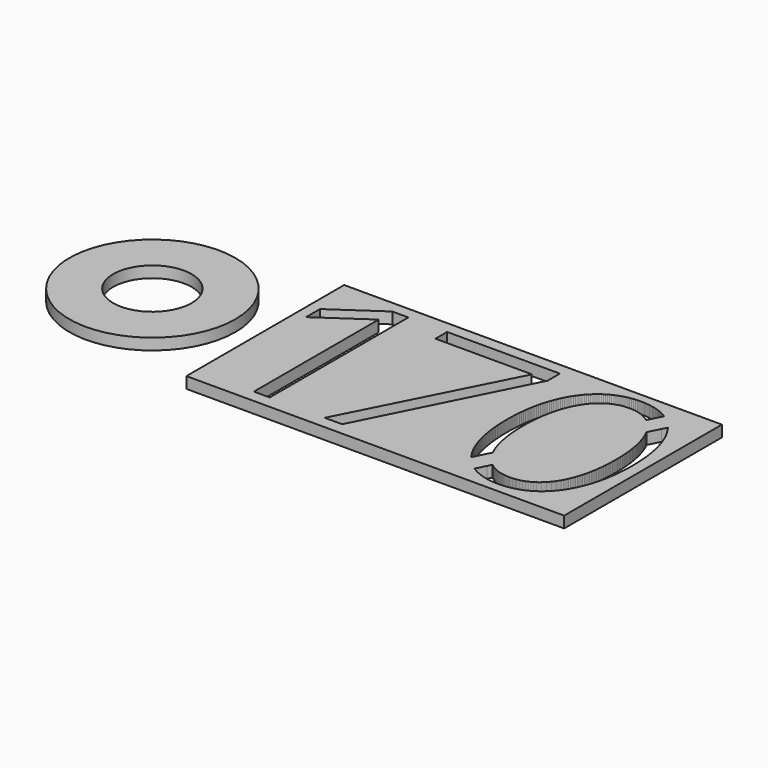
from build123d import *

# Parameters (mm, degrees)
F0_R     = 69.85
F0_R_2   = 33.02
F0_W     = 317.880854
F0_H     = 165.927604
F1_DEPTH = 9.525


with BuildPart() as f1:
    # F0 (on Top) → F1 (new body)
    with BuildSketch(Plane.XY):
        Circle(F0_R)
        Circle(F0_R_2, mode=Mode.SUBTRACT)
        with Locations((254.15469, -0.285514)):
            Rectangle(F0_W, F0_H)
        Polygon((403.593935, 6.470647), (403.665512, 4.388863), (403.708616, 2.28239), (403.722992, 0.151508), (403.708667, -1.993344), (403.665817, -4.113381), (403.594545, -6.208271), (403.495027, -8.277787), (403.367392, -10.321623), (403.211767, -12.339476), (403.028252, -14.331064), (402.817076, -16.29611), (402.578316, -18.234333), (402.312124, -20.145429), (402.018627, -22.029118), (401.697977, -23.885122), (401.350328, -25.71316), (400.975779, -27.512928), (400.57451, -29.28412), (400.146622, -31.02651), (399.692317, -32.73974), (399.211648, -34.423607), (398.704791, -36.077757), (398.171899, -37.701909), (397.613099, -39.29581), (397.028543, -40.859154), (396.418333, -42.391638), (395.782648, -43.893007), (395.121587, -45.362981), (394.435355, -46.80123), (393.724003, -48.207501), (392.987759, -49.581514), (392.226673, -50.922939), (391.440949, -52.231522), (390.630689, -53.506983), (389.796071, -54.749017), (388.93717, -55.957346), (388.05419, -57.13169), (387.147257, -58.271743), (386.216474, -59.377253), (385.261993, -60.447888), (384.283966, -61.483396), (383.282546, -62.48347), (382.257859, -63.447857), (381.210007, -64.376227), (380.139143, -65.268326), (379.04547, -66.123823), (377.929038, -66.942516), (376.790052, -67.724023), (375.628611, -68.468116), (374.44487, -69.17449), (373.238954, -69.842866), (372.011016, -70.472964), (370.761184, -71.064453), (369.489609, -71.617107), (368.196419, -72.130618), (366.881766, -72.604684), (365.545776, -73.039024), (364.188578, -73.433359), (362.810349, -73.78741), (361.41119, -74.100871), (359.991254, -74.373489), (358.550667, -74.604934), (357.089583, -74.794926), (355.608128, -74.943237), (354.106455, -75.049485), (352.58469, -75.113467), (351.043011, -75.134854), (349.501206, -75.113544), (347.979213, -75.04979), (346.477158, -74.943872), (344.995221, -74.796069), (343.533501, -74.606687), (342.092178, -74.375978), (340.671353, -74.104249), (339.271204, -73.791753), (337.891857, -73.438795), (336.533465, -73.045653), (335.196155, -72.612609), (333.880104, -72.13994), (332.585416, -71.627927), (331.312241, -71.076849), (330.060757, -70.486984), (328.831092, -69.858639), (327.623348, -69.192067), (326.437727, -68.487573), (325.28035, -67.749271), (329.318544, -59.720839), (331.11374, -56.151758), (331.119937, -56.156914), (331.960601, -56.812158), (332.81813, -57.436007), (333.6925, -58.028208), (334.583583, -58.588558), (335.491277, -59.116776), (336.415532, -59.612635), (337.356247, -60.075905), (338.313319, -60.506359), (339.286672, -60.903742), (340.276231, -61.2678), (341.281893, -61.598331), (342.303557, -61.895079), (343.341173, -62.157791), (344.394587, -62.386264), (345.4638, -62.580218), (346.548659, -62.739476), (347.649089, -62.863733), (348.765012, -62.952786), (349.896354, -63.00638), (351.043011, -63.024312), (352.189644, -63.00638), (353.320985, -62.952786), (354.436909, -62.863733), (355.537338, -62.739502), (356.622198, -62.580269), (357.691411, -62.38634), (358.744825, -62.157918), (359.78244, -61.895282), (360.80413, -61.59861), (361.809767, -61.268181), (362.799325, -60.90425), (363.772679, -60.50702), (364.729751, -60.076769), (365.670465, -59.613702), (366.59472, -59.118071), (367.502415, -58.590132), (368.393497, -58.030113), (369.267867, -57.438268), (370.125396, -56.814799), (370.96606, -56.159987), (371.789757, -55.474035), (372.596359, -54.757222), (373.385791, -54.009776), (374.158002, -53.231901), (374.91289, -52.423901), (375.650328, -51.586006), (376.370266, -50.718393), (377.072601, -49.821341), (377.757258, -48.895105), (378.424135, -47.939912), (379.073181, -46.955993), (379.704244, -45.943625), (380.317299, -44.902987), (380.912218, -43.834383), (381.488925, -42.737992), (382.047318, -41.614093), (382.587373, -40.46294), (383.108911, -39.284735), (383.611907, -38.079759), (384.096235, -36.848215), (384.561842, -35.590356), (385.008603, -34.306412), (385.436466, -32.996661), (385.845329, -31.661281), (386.235092, -30.300578), (386.605678, -28.914754), (386.957011, -27.504038), (387.288989, -26.068709), (387.601536, -24.608996), (387.894551, -23.125103), (388.167931, -21.617334), (388.421626, -20.085866), (388.655509, -18.53098), (388.869555, -16.952903), (389.063611, -15.351865), (389.237601, -13.728119), (389.391449, -12.081894), (389.525104, -10.41347), (389.638413, -8.723049), (389.731326, -7.01086), (389.803716, -5.277183), (389.855558, -3.522196), (389.886723, -1.746202), (389.897137, 0.050568), (389.886571, 1.833445), (389.854999, 3.596103), (389.802446, 5.33834), (389.729091, 7.059825), (389.635009, 8.76033), (389.520278, 10.439651), (389.385023, 12.097509), (389.229321, 13.73365), (389.053324, 15.347794), (388.857084, 16.939739), (388.640701, 18.50918), (388.404329, 20.055938), (388.148043, 21.579659), (387.871919, 23.080215), (387.57606, 24.55725), (387.260592, 26.010537), (386.925617, 27.439871), (386.571261, 28.844948), (386.197577, 30.22554), (385.804664, 31.581417), (385.392651, 32.912275), (384.961638, 34.217886), (384.511702, 35.498021), (384.042996, 36.7524), (383.55557, 37.980769), (383.049551, 39.182875), (382.525041, 40.358489), (381.982142, 41.507381), (381.420929, 42.629223), (381.102133, 43.231457), (386.055946, 53.080282), (388.071335, 57.087132), (388.898181, 55.991808), (389.758199, 54.786908), (390.594063, 53.548531), (391.405593, 52.276981), (392.192662, 50.972514), (392.955145, 49.635458), (393.692863, 48.266067), (394.405663, 46.864673), (395.093444, 45.431554), (395.756028, 43.96699), (396.393289, 42.471337), (397.005048, 40.944797), (397.591204, 39.387726), (398.151579, 37.800378), (398.68602, 36.183084), (399.194426, 34.536123), (399.67662, 32.859774), (400.132448, 31.154341), (400.561785, 29.420131), (400.964476, 27.657396), (401.340371, 25.866493), (401.689316, 24.04765), (402.011236, 22.201222), (402.305876, 20.327439), (402.57316, 18.42663), (402.812936, 16.4991), (403.025026, 14.545129), (403.209354, 12.564996), (403.365691, 10.559005), (403.493935, 8.527463), align=None, mode=Mode.SUBTRACT)
        Polygon((143.654272, -72.813548), (143.654272, 58.180348), (143.250691, 58.180348), (104.194661, 31.335647), (104.194661, 46.069983), (143.452571, 73.015446), (156.975785, 73.015446), (156.975785, -72.813548), align=None, mode=Mode.SUBTRACT)
        Polygon((203.297155, -72.813548), (270.81259, 60.097718), (270.81259, 60.501476), (189.773941, 60.501476), (189.773941, 72.81372), (284.638445, 72.81372), (284.638445, 59.895991), (217.930527, -72.813548), align=None, mode=Mode.SUBTRACT)
        Polygon((298.390818, -6.308576), (298.31919, -4.214016), (298.276112, -2.094208), (298.261735, 0.050568), (298.276264, 2.181501), (298.319749, 4.288203), (298.392088, 6.370342), (298.493053, 8.427666), (298.622491, 10.459818), (298.780276, 12.466545), (298.96628, 14.447542), (299.18025, 16.402504), (299.422109, 18.331151), (299.691704, 20.233129), (299.988808, 22.108182), (300.313344, 23.956032), (300.665109, 25.776349), (301.04395, 27.568852), (301.449715, 29.333238), (301.882251, 31.069175), (302.341382, 32.776411), (302.826979, 34.45464), (303.338865, 36.103557), (303.876888, 37.722858), (304.44092, 39.312237), (305.030734, 40.871442), (305.646252, 42.400115), (306.287246, 43.898004), (306.953615, 45.364778), (307.645181, 46.800183), (308.361766, 48.203863), (309.103268, 49.575539), (309.869484, 50.914957), (310.660237, 52.221762), (311.475425, 53.495699), (312.314869, 54.736438), (313.178419, 55.9437), (314.065895, 57.117155), (314.977145, 58.256573), (315.912017, 59.361575), (316.870385, 60.431905), (317.852044, 61.467286), (318.856868, 62.467385), (319.884679, 63.431899), (320.93535, 64.360574), (322.008678, 65.253054), (323.104535, 66.109085), (324.22277, 66.928336), (325.363205, 67.710555), (326.525712, 68.45541), (327.710114, 69.162597), (328.916259, 69.831861), (330.143968, 70.462848), (331.393114, 71.055278), (332.663546, 71.608871), (333.95506, 72.123322), (335.267529, 72.598302), (336.600825, 73.033582), (337.954747, 73.428806), (339.329166, 73.783669), (340.723906, 74.097944), (342.138813, 74.371248), (343.57371, 74.603327), (345.028495, 74.793878), (346.502965, 74.942621), (347.996967, 75.049224), (349.510375, 75.11341), (351.043011, 75.134873), (352.580118, 75.113486), (354.097565, 75.049504), (355.59525, 74.943281), (357.072946, 74.795021), (358.53055, 74.605105), (359.967936, 74.373762), (361.384926, 74.101296), (362.781367, 73.788038), (364.157133, 73.434242), (365.512096, 73.040211), (366.846079, 72.606227), (368.158954, 72.132644), (369.450544, 71.619666), (370.720772, 71.067647), (371.969411, 70.476869), (373.196358, 69.847609), (374.401486, 69.180199), (375.584618, 68.474866), (376.047533, 68.178651), (372.007486, 60.146486), (370.207235, 56.567372), (370.036522, 56.700569), (369.179856, 57.324774), (368.306731, 57.917458), (367.417248, 58.478341), (366.51151, 59.007194), (365.589591, 59.503739), (364.65162, 59.967746), (363.697698, 60.398962), (362.727926, 60.797107), (361.74238, 61.161978), (360.741189, 61.49327), (359.724477, 61.790755), (358.692298, 62.054203), (357.644776, 62.283337), (356.581989, 62.477901), (355.504064, 62.637667), (354.411128, 62.762355), (353.30323, 62.851738), (352.180474, 62.905561), (351.043011, 62.923544), (349.910095, 62.905434), (348.791682, 62.851179), (347.687773, 62.761111), (346.59857, 62.635482), (345.524099, 62.474548), (344.464538, 62.278612), (343.419963, 62.047904), (342.390501, 61.782677), (341.376229, 61.483262), (340.377297, 61.149887), (339.393784, 60.782806), (338.425765, 60.38235), (337.473442, 59.948696), (336.536843, 59.482174), (335.616093, 58.983039), (334.711319, 58.451569), (333.82265, 57.887994), (332.950134, 57.292618), (332.093926, 56.66572), (331.2541, 56.007505), (330.43081, 55.318301), (329.624131, 54.598364), (328.834191, 53.847946), (328.061066, 53.067328), (327.304883, 52.256788), (326.565793, 51.416556), (325.843824, 50.546937), (325.139152, 49.648208), (324.451853, 48.720575), (323.78203, 47.764367), (323.129834, 46.779812), (322.495291, 45.767215), (321.878604, 44.726806), (321.279825, 43.658888), (320.699079, 42.563717), (320.136469, 41.44157), (319.592122, 40.292677), (319.066113, 39.117343), (318.55857, 37.915821), (318.06962, 36.688392), (317.599314, 35.435308), (317.147854, 34.156825), (316.715242, 32.853246), (316.301653, 31.524826), (315.907191, 30.171819), (315.531957, 28.794529), (315.176052, 27.39316), (314.839579, 25.968042), (314.522688, 24.519404), (314.225407, 23.04755), (313.947937, 21.552684), (313.69033, 20.035161), (313.452713, 18.495185), (313.235162, 16.933059), (313.03783, 15.349014), (312.860817, 13.743353), (312.704201, 12.116305), (312.568133, 10.4682), (312.45269, 8.799243), (312.358024, 7.109762), (312.284161, 5.399961), (312.231303, 3.670119), (312.199477, 1.920567), (312.18886, 0.151508), (312.199274, -1.649936), (312.23044, -3.430426), (312.282281, -5.189757), (312.354697, -6.927675), (312.447584, -8.643953), (312.560894, -10.338337), (312.694549, -12.010622), (312.848396, -13.660504), (313.022386, -15.287806), (313.216442, -16.892273), (313.430488, -18.473652), (313.664371, -20.031713), (313.918067, -21.566254), (314.191447, -23.076995), (314.484461, -24.563708), (314.797008, -26.026139), (315.128986, -27.464058), (315.480319, -28.877263), (315.850905, -30.265475), (316.240668, -31.62849), (316.649532, -32.966028), (317.077395, -34.277887), (317.524155, -35.563813), (317.989763, -36.823577), (318.47409, -38.056925), (318.977086, -39.263628), (319.498624, -40.443433), (320.038679, -41.596135), (320.432811, -42.390444), (315.270083, -52.65461), (313.391093, -56.390238), (313.100415, -56.005454), (312.239177, -54.799487), (311.402146, -53.559815), (310.589549, -52.286716), (309.801463, -50.98047), (309.038041, -49.641382), (308.29946, -48.269706), (307.585821, -46.865746), (306.897303, -45.429732), (306.234008, -43.962018), (305.596138, -42.462834), (304.983769, -40.93251), (304.397105, -39.371273), (303.836222, -37.77943), (303.301349, -36.157284), (302.792536, -34.50509), (302.309987, -32.823102), (301.853854, -31.111676), (301.424238, -29.371039), (301.021318, -27.601472), (300.645195, -25.803279), (300.296047, -23.97674), (299.974, -22.122133), (299.679208, -20.239739), (299.411822, -18.329837), (299.171995, -16.392706), (298.959803, -14.428651), (298.77545, -12.437901), (298.619088, -10.42081), (298.490818, -8.377584), align=None, mode=Mode.SUBTRACT)
    extrude(amount=F1_DEPTH)


solid = f1.part
